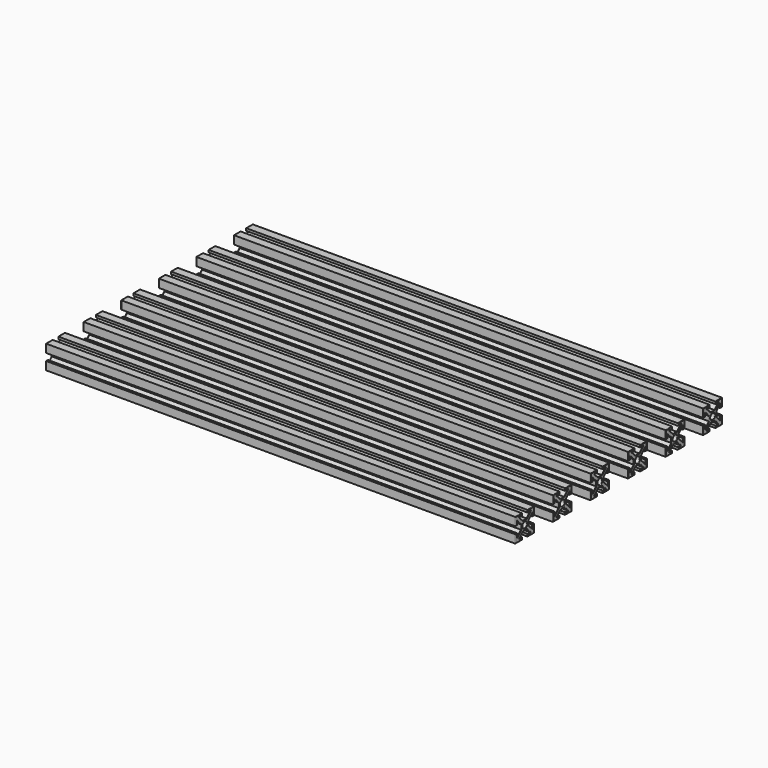
from build123d import *

# Parameters (mm, degrees)
SKETCH_R  = 1.25
PAD_DEPTH = 200
FILLET_R  = 0.2


with BuildPart() as fillet_body:
    # Sketch → Pad (new body)
    with BuildSketch(Plane.ZY):
        Polygon((-1, 2), (1, 2), (3, 4), (1.5, 4), (1.5, 5), (5, 5), (5, 1.5), (4, 1.5), (4, 3), (2, 1), (2, -1), (4, -3), (4, -1.5), (5, -1.5), (5, -5), (1.5, -5), (1.5, -4), (3, -4), (1, -2), (-1, -2), (-3, -4), (-1.5, -4), (-1.5, -5), (-5, -5), (-5, -1.5), (-4, -1.5), (-4, -3), (-2, -1), (-2, 1), (-4, 3), (-4, 1.5), (-5, 1.5), (-5, 5), (-1.5, 5), (-1.5, 4), (-3, 4), align=None)
        Circle(SKETCH_R, mode=Mode.SUBTRACT)
    extrude(amount=PAD_DEPTH)

    # Fillet
    fillet_edges = [fillet_body.edges().sort_by_distance(p)[0] for p in [
        (0, 2, 0),
        (0, 3, 2),
        (0, 4, 2.25),
        (0, 4.5, 1.5),
        (0, 5, 3.25),
        (0, 3.25, 5),
        (0, 1.5, 4.5),
        (0, 2.25, 4),
        (0, 2, 3),
        (0, 0, 2),
        (0, -2, 3),
        (0, -2.25, 4),
        (0, -1.5, 4.5),
        (0, -3.25, 5),
        (0, -5, 3.25),
        (0, -4.5, 1.5),
        (0, -4, 2.25),
        (0, -3, 2),
        (0, -2, 0),
        (0, -3, -2),
        (0, -4, -2.25),
        (0, -4.5, -1.5),
        (0, -5, -3.25),
        (0, -3.25, -5),
        (0, -1.5, -4.5),
        (0, -2.25, -4),
        (0, -2, -3),
        (0, 0, -2),
        (0, 2, -3),
        (0, 2.25, -4),
        (0, 1.5, -4.5),
        (0, 3.25, -5),
        (0, 5, -3.25),
        (0, 4.5, -1.5),
        (0, 4, -2.25),
        (0, 3, -2),
        (0, 0, -1.25),
        (-200, 2, 0),
        (-200, 3, 2),
        (-200, 4, 2.25),
        (-200, 4.5, 1.5),
        (-200, 5, 3.25),
        (-200, 3.25, 5),
        (-200, 1.5, 4.5),
        (-200, 2.25, 4),
        (-200, 2, 3),
        (-200, 0, 2),
        (-200, -2, 3),
        (-200, -2.25, 4),
        (-200, -1.5, 4.5),
        (-200, -3.25, 5),
        (-200, -5, 3.25),
        (-200, -4.5, 1.5),
        (-200, -4, 2.25),
        (-200, -3, 2),
        (-200, -2, 0),
        (-200, -3, -2),
        (-200, -4, -2.25),
        (-200, -4.5, -1.5),
        (-200, -5, -3.25),
        (-200, -3.25, -5),
        (-200, -1.5, -4.5),
        (-200, -2.25, -4),
        (-200, -2, -3),
        (-200, 0, -2),
        (-200, 2, -3),
        (-200, 2.25, -4),
        (-200, 1.5, -4.5),
        (-200, 3.25, -5),
        (-200, 5, -3.25),
        (-200, 4.5, -1.5),
        (-200, 4, -2.25),
        (-200, 3, -2),
        (-200, 0, -1.25),
    ]]
    fillet(fillet_edges, radius=FILLET_R)


with BuildPart() as clone_of_fillet:
    # Clone base: copy of Fillet body
    add(fillet_body.part)


with BuildPart() as clone_of_fillet_1:
    # Clone placement: moved
    add(clone_of_fillet.part.moved(Location((0, 20, 0))))


with BuildPart() as clone_of_fillet001:
    # Clone001 base: copy of Fillet body
    add(fillet_body.part)


with BuildPart() as clone_of_fillet001_1:
    # Clone001 placement: moved
    add(clone_of_fillet001.part.moved(Location((0, 40, 0))))


with BuildPart() as clone_of_fillet002:
    # Clone002 base: copy of Fillet body
    add(fillet_body.part)


with BuildPart() as clone_of_fillet002_1:
    # Clone002 placement: moved
    add(clone_of_fillet002.part.moved(Location((0, 60, 0))))


with BuildPart() as clone_of_fillet003:
    # Clone003 base: copy of Fillet body
    add(fillet_body.part)


with BuildPart() as clone_of_fillet003_1:
    # Clone003 placement: moved
    add(clone_of_fillet003.part.moved(Location((0, 80, 0))))


with BuildPart() as clone_of_fillet004:
    # Clone004 base: copy of Fillet body
    add(fillet_body.part)


with BuildPart() as clone_of_fillet004_1:
    # Clone004 placement: moved
    add(clone_of_fillet004.part.moved(Location((0, 100, 0))))


solid = Compound([fillet_body.part, clone_of_fillet_1.part, clone_of_fillet001_1.part, clone_of_fillet002_1.part, clone_of_fillet003_1.part, clone_of_fillet004_1.part])
